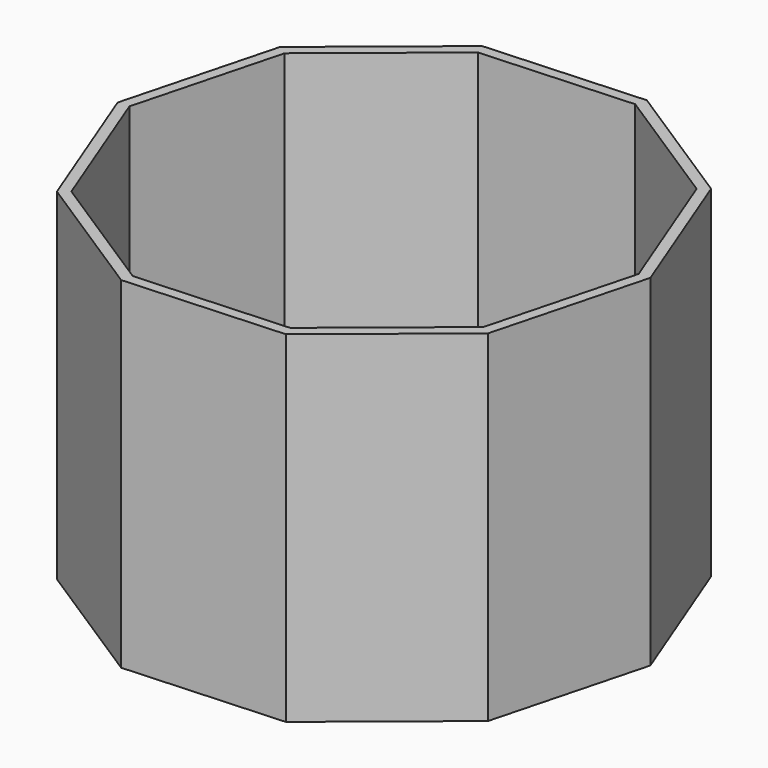
from build123d import *

# Parameters (mm, degrees)
F1_DEPTH = 80.772
F2_T     = -2.54


with BuildPart() as f1:
    # F0 (on Top) → F1 (new body)
    with BuildSketch(Plane.XY):
        Polygon((-21.848991, 56.362636), (-50.805331, 32.755815), (-60.355761, -3.362613), (-46.852342, -38.196637), (-15.452921, -58.440845), (21.848991, -56.362636), (50.805331, -32.755815), (60.355761, 3.362613), (46.852342, 38.196637), (15.452921, 58.440845), align=None)
    extrude(amount=F1_DEPTH)

    # F2
    f2_openings = [f1.faces().sort_by_distance(p)[0] for p in [
        (0, 0, 80.772),
    ]]
    offset(amount=F2_T, openings=f2_openings)


solid = f1.part
